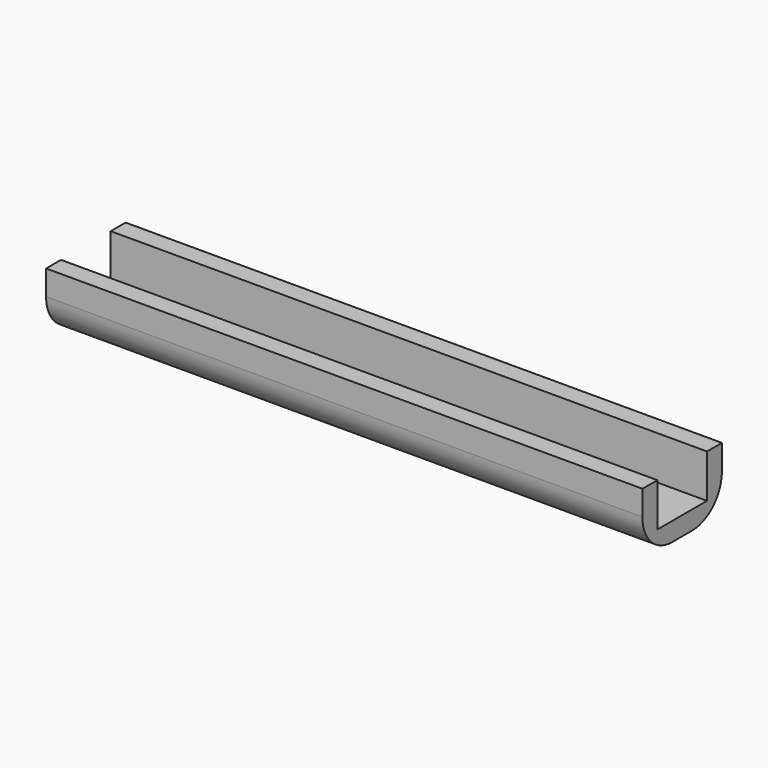
from build123d import *

# Parameters (mm, degrees)
F0_W     = 48
F0_H     = 8
F1_DEPTH = 5
F2_W     = 48
F2_H     = 5
F3_DEPTH = 3.5
F4_R     = 3


with BuildPart() as f1:
    # F0 (on Top) → F1 (new body)
    with BuildSketch(Plane.XY):
        Rectangle(F0_W, F0_H)
    extrude(amount=F1_DEPTH)

    # F2 (on face) → F3 (cut)
    with BuildSketch(Plane.XY.offset(5)):
        Rectangle(F2_W, F2_H)
    extrude(amount=-F3_DEPTH, mode=Mode.SUBTRACT)

    # F4
    f4_edges = [f1.edges().sort_by_distance(p)[0] for p in [
        (0, -4, 0),
        (0, 4, 0),
    ]]
    fillet(f4_edges, radius=F4_R)


solid = f1.part
